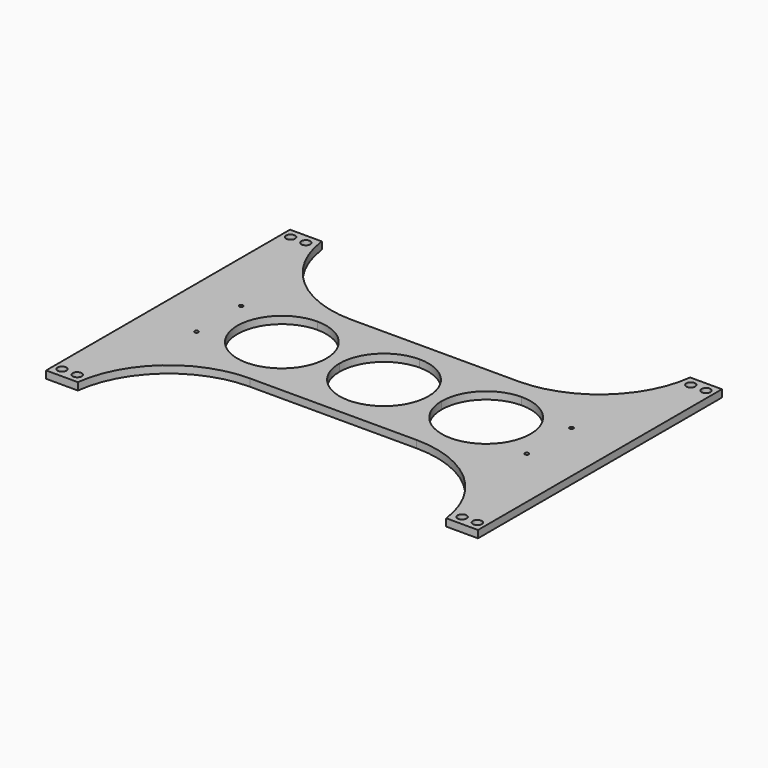
from build123d import *

# Parameters (mm, degrees)
F0_R     = 3.5
F0_W     = 25
F0_H     = 70
F1_DEPTH = 5.8
F2_R     = 1.5
F3_DEPTH = 25


with BuildPart() as f1:
    # F0 (on Top) → F1 (new body)
    with BuildSketch(Plane.XY):
        with BuildLine():
            Line((-145, 50), (-65.6274606681, 50))
            ThreePointArc((-65.6274606681, 50), (-118.5424868894, 70), (-145, 120))
            Line((-145, 120), (-145, 78.135895431))
            Line((-145, 78.135895431), (-145, 50))
        make_face()
        Polygon((-170, 50), (-145, 50), (-145, 78.135895431), (-145, 120), (-170, 120), align=None)
        with Locations((-163.5, 112.5)):
            Circle(F0_R, mode=Mode.SUBTRACT)
        with Locations((-151.5, 112.5)):
            Circle(F0_R, mode=Mode.SUBTRACT)
        Polygon((145, -50), (170, -50), (170, 0), (170, 50), (145, 50), (65.6274606681, 50), (-65.6274606681, 50), (-145, 50), (-170, 50), (-170, 0), (-170, -50), (-145, -50), (-65.6274606681, -50), (65.6274606681, -50), align=None)
        Polygon((117.5, 35), (117.5, -35), (80.4067477584, -35), (1.297e-07, -35), (-80.4067503304, -35), (-117.5, -35), (-117.5, 35), (-80.40675, 35), (-1.1e-09, 35), (80.4067477584, 35), align=None, mode=Mode.SUBTRACT)
        with Locations((-157.5, -85)):
            Rectangle(F0_W, F0_H)
        with Locations((-163.5, -112.5)):
            Circle(F0_R, mode=Mode.SUBTRACT)
        with Locations((-151.5, -112.5)):
            Circle(F0_R, mode=Mode.SUBTRACT)
        with BuildLine():
            ThreePointArc((-145, -120), (-118.5424868894, -70), (-65.6274606681, -50))
            Line((-65.6274606681, -50), (-145, -50))
            Line((-145, -50), (-145, -120))
        make_face()
        with BuildLine():
            Line((145, -120), (145, -50))
            Line((145, -50), (65.6274606681, -50))
            ThreePointArc((65.6274606681, -50), (118.5424868894, -70), (145, -120))
        make_face()
        Polygon((170, -120), (170, -50), (145, -50), (145, -120), (157.5, -120), align=None)
        with Locations((151.5, -112.5)):
            Circle(F0_R, mode=Mode.SUBTRACT)
        with BuildLine():
            ThreePointArc((167, -112.5), (163.5, -116), (160, -112.5))
            ThreePointArc((160, -112.5), (163.5, -109), (167, -112.5))
        make_face(mode=Mode.SUBTRACT)
        with BuildLine():
            Line((65.6274606681, 50), (145, 50))
            Line((145, 50), (145, 75.7707309723))
            Line((145, 75.7707309723), (145, 120))
            ThreePointArc((145, 120), (118.5424868894, 70), (65.6274606681, 50))
        make_face()
        Polygon((145, 50), (170, 50), (170, 120), (145, 120), (145, 75.7707309723), align=None)
        with Locations((151.5, 112.5)):
            Circle(F0_R, mode=Mode.SUBTRACT)
        with Locations((163.5, 112.5)):
            Circle(F0_R, mode=Mode.SUBTRACT)
        with BuildLine():
            Line((-117.5, -35), (-80.4067503304, -35))
            ThreePointArc((-80.4067503304, -35), (-115.40675, 1.652e-07), (-80.40675, 35))
            Line((-80.40675, 35), (-117.5, 35))
            Line((-117.5, 35), (-117.5, -35))
        make_face()
        with BuildLine():
            Line((-45.40675, 0), (-35, 0))
            ThreePointArc((-35, 0), (-24.7487373419, 24.7487373412), (-1.1e-09, 35))
            Line((-1.1e-09, 35), (-80.40675, 35))
            ThreePointArc((-80.40675, 35), (-55.6580126585, 24.7487373415), (-45.40675, 0))
        make_face()
        with BuildLine():
            Line((-80.4067503304, -35), (1.297e-07, -35))
            ThreePointArc((1.297e-07, -35), (-24.7487372957, -24.7487373874), (-35, 0))
            Line((-35, 0), (-45.40675, 0))
            ThreePointArc((-45.40675, 0), (-55.6580127753, -24.7487374583), (-80.4067503304, -35))
        make_face()
        with BuildLine():
            Line((1.297e-07, -35), (80.4067477584, -35))
            ThreePointArc((80.4067477584, -35), (55.6580104169, -24.7487373415), (45.4067477584, 0))
            Line((45.4067477584, 0), (35, 0))
            ThreePointArc((35, 0), (24.7487373874, -24.7487372957), (1.297e-07, -35))
        make_face()
        with BuildLine():
            Line((35, 0), (45.4067477584, 0))
            ThreePointArc((45.4067477584, 0), (55.6580104169, 24.7487373415), (80.4067477584, 35))
            Line((80.4067477584, 35), (-1.1e-09, 35))
            ThreePointArc((-1.1e-09, 35), (24.7487373412, 24.7487373419), (35, 0))
        make_face()
        with BuildLine():
            Line((80.4067477584, -35), (117.5, -35))
            Line((117.5, -35), (117.5, 35))
            Line((117.5, 35), (80.4067477584, 35))
            ThreePointArc((80.4067477584, 35), (105.1554850999, 24.7487373415), (115.4067477584, 0))
            ThreePointArc((115.4067477584, 0), (105.1554850999, -24.7487373415), (80.4067477584, -35))
        make_face()
    extrude(amount=F1_DEPTH)

    # F2 (on face) → F3 (cut)
    with BuildSketch(Plane(origin=(0, 0, 0), x_dir=(1, 0, 0), z_dir=(0, 0, -1))):
        with Locations((130, 22)):
            Circle(F2_R)
        with Locations((130, -22)):
            Circle(F2_R)
        with BuildLine():
            ThreePointArc((-128.5, -22), (-128.9393398282, -20.9393398282), (-130, -20.5))
            ThreePointArc((-130, -20.5), (-131.0606601718, -23.0606601718), (-128.5, -22))
        make_face()
        with BuildLine():
            ThreePointArc((-128.5, 22), (-131.0606601718, 23.0606601718), (-130, 20.5))
            ThreePointArc((-130, 20.5), (-128.9393398282, 20.9393398282), (-128.5, 22))
        make_face()
    extrude(amount=-F3_DEPTH, mode=Mode.SUBTRACT)


solid = f1.part
